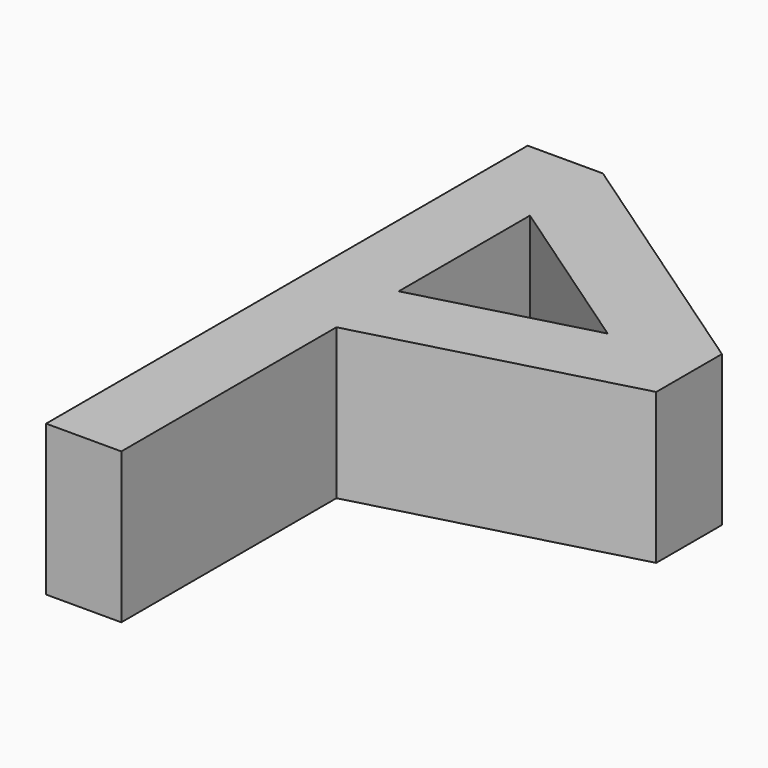
from build123d import *

# Parameters (mm, degrees)
F1_DEPTH = 8


with BuildPart() as f1:
    # F0 (on Top) → F1 (new body)
    with BuildSketch(Plane.XY):
        Polygon((4, 0), (0, 0), (0, -32), (4, -32), (4, -22.828427), (4, -17.707471), (18, -13.956183), (18, -9.591663), align=None)
        Polygon((4, -13.566367), (4, -4.848732), (13.146918, -11.115457), align=None, mode=Mode.SUBTRACT)
    extrude(amount=F1_DEPTH)


solid = f1.part
